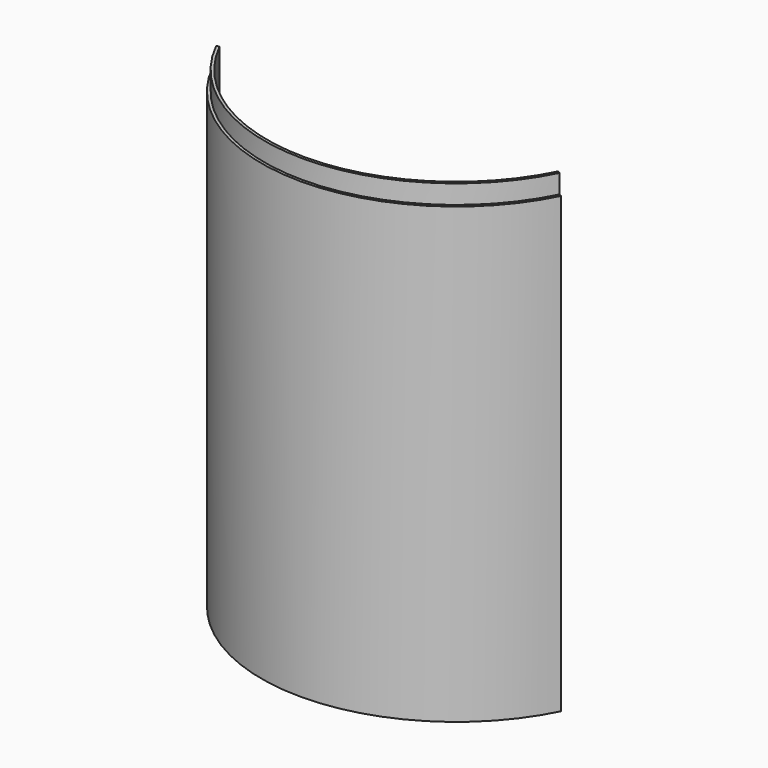
from build123d import *

# Parameters (mm, degrees)
F1_DEPTH = 250
F2_R     = 103
F2_R_2   = 101.5
F3_DEPTH = 10


with BuildPart() as f1:
    # F0 (on Top) → F1 (new body)
    with BuildSketch(Plane.XY):
        with BuildLine():
            Line((-89.493436, -44.619781), (-92.178239, -45.958375))
            ThreePointArc((-92.178239, -45.958375), (0, -103), (92.178239, -45.958375))
            Line((92.178239, -45.958375), (89.493436, -44.619781))
            ThreePointArc((89.493436, -44.619781), (0, -100), (-89.493436, -44.619781))
        make_face()
    extrude(amount=F1_DEPTH)

    # F2 (on face) → F3 (cut)
    with BuildSketch(Plane.XY.offset(250)):
        Circle(F2_R)
        Circle(F2_R_2, mode=Mode.SUBTRACT)
    extrude(amount=-F3_DEPTH, mode=Mode.SUBTRACT)


solid = f1.part
